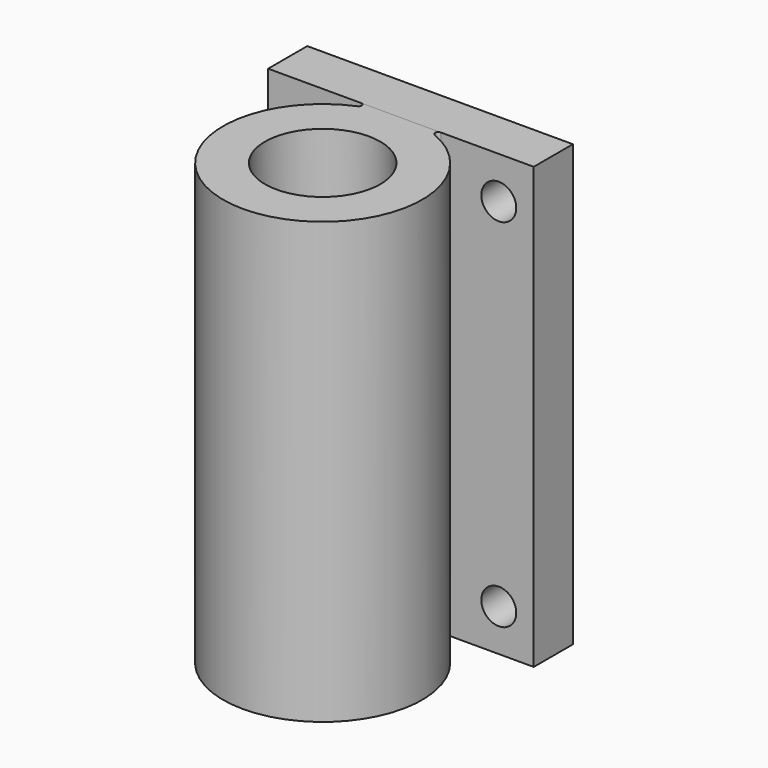
from build123d import *

# Parameters (mm, degrees)
F0_R     = 5
F1_DEPTH = 19
F2_W     = 76
F2_H     = 5
F3_DEPTH = 126.001
F4_R     = 10
F5_DEPTH = 126
F6_R     = 16.5
F7_DEPTH = 28


with BuildPart() as f1:
    # F0 (on Front) → F1 (new body)
    with BuildSketch(Plane.XZ):
        with BuildLine():
            Line((25.523024, 54.50329), (-50.476976, 54.50329))
            Line((-50.476976, 54.50329), (-50.476976, 28.50329))
            ThreePointArc((-50.476976, 28.50329), (-36.476976, 14.50329), (-50.476976, 0.50329))
            Line((-50.476976, 0.50329), (-50.476976, -71.49671))
            Line((-50.476976, -71.49671), (25.523024, -71.49671))
            Line((25.523024, -71.49671), (25.523024, 54.50329))
        make_face()
        with Locations((-40.476976, -59.49671)):
            Circle(F0_R, mode=Mode.SUBTRACT)
        with Locations((15.523024, -59.49671)):
            Circle(F0_R, mode=Mode.SUBTRACT)
        with Locations((-40.476976, 42.50329)):
            Circle(F0_R, mode=Mode.SUBTRACT)
        with Locations((15.523024, 42.50329)):
            Circle(F0_R, mode=Mode.SUBTRACT)
    extrude(amount=-F1_DEPTH)

    # F2 (on face) → F3 (cut, through all)
    with BuildSketch(Plane(origin=(0, 0, -71.49671), x_dir=(1, 0, 0), z_dir=(0, 0, -1))):
        with Locations((-12.476976, -2.5)):
            Rectangle(F2_W, F2_H)
    extrude(amount=-F3_DEPTH, mode=Mode.SUBTRACT)


with BuildPart() as f5:
    # F4 (on face) → F5 (new body, through all)
    with BuildSketch(Plane.XY.offset(54.50329)):
        with BuildLine():
            ThreePointArc((-23.88219, 5), (-22.998867, 4.277169), (-23.532622, 3.268283))
            ThreePointArc((-23.532622, 3.268283), (-12.476976, -51.5), (-1.421329, 3.268283))
            ThreePointArc((-1.421329, 3.268283), (-1.955085, 4.277169), (-1.071761, 5))
            Line((-1.071761, 5), (-23.88219, 5))
        make_face()
        with Locations((-12.476976, -23)):
            Circle(F4_R, mode=Mode.SUBTRACT)
    extrude(amount=-F5_DEPTH)

    # F6 (on face) → F7 (cut)
    with BuildSketch(Plane.XY.offset(54.50329)):
        with Locations((-12.476976, -23)):
            Circle(F6_R)
    extrude(amount=-F7_DEPTH, mode=Mode.SUBTRACT)


solid = Compound([f1.part, f5.part])
